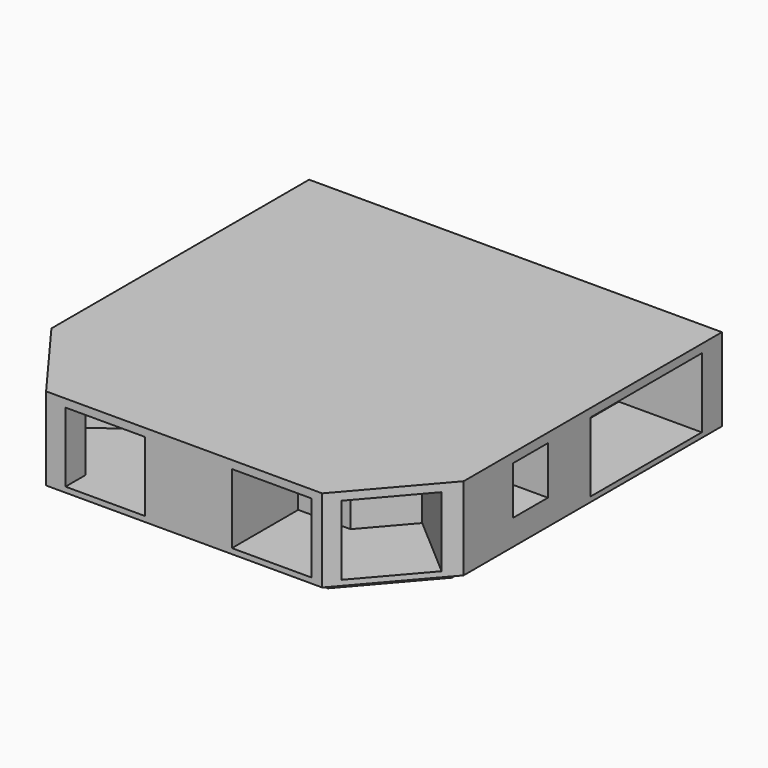
from build123d import *

# Parameters (mm, degrees)
F1_DEPTH  = 3
F3_DEPTH  = 25
F4_W      = 13.2
F4_H      = 14.5
F4_W_2    = 42
F4_H_2    = 21
F5_DEPTH  = 25
F6_W      = 24
F6_H      = 21
F7_DEPTH  = 25
F8_W      = 24
F8_H      = 21
F9_DEPTH  = 25
F10_W     = 24
F10_H     = 21
F11_DEPTH = 25
F12_W     = 9
F12_H     = 21
F12_W_2   = 13.2
F12_H_2   = 13.2
F13_DEPTH = 25


with BuildPart() as f1:
    # F0 (on Top) → F1 (new body)
    with BuildSketch(Plane.XY):
        Polygon((52.4343535528, 49.4626009114), (-62.0656464472, 49.4626009114), (-62.0656464472, -41.0373990886), (-45.4653799534, -63.5373990886), (33.0013521016, -63.5373990886), (52.4343535528, -41.0373990886), align=None)
    extrude(amount=-F1_DEPTH)

    # F2 (on face) → F3 (join)
    with BuildSketch(Plane.XY):
        Polygon((52.4343535528, 54.4626009114), (-62.0656464472, 54.4626009114), (-67.0656464472, 54.4626009114), (-67.0656464472, -42.682259346), (-47.9899926711, -68.5373990886), (35.2896436851, -68.5373990886), (57.4343535528, -42.8977173713), (57.4343535528, 54.4626009114), align=None)
    extrude(amount=F3_DEPTH)

    # F4 (on face) → F5 (cut)
    with BuildSketch(Plane.YZ.offset(57.4343535528)):
        with Locations((-17.7373990886, 14.955594413)):
            Rectangle(F4_W, F4_H)
        with Locations((25.8626009114, 11.9932589587)):
            Rectangle(F4_W_2, F4_H_2)
    extrude(amount=-F5_DEPTH, mode=Mode.SUBTRACT)

    # F6 (on face) → F7 (cut)
    with BuildSketch(Plane(origin=(54.1161959556, -46.7395606462, 0), x_dir=(0.6536426668, 0.7568033193, 0), z_dir=(0.7568033193, -0.6536426668, 0))):
        with Locations((-12.2025143201, 12.1)):
            Rectangle(F6_W, F6_H)
    extrude(amount=-F7_DEPTH, mode=Mode.SUBTRACT)

    # F8 (on face) → F9 (cut)
    with BuildSketch(Plane.XZ.offset(68.5373990886)):
        with Locations((-30.1374887228, 12.1)):
            Rectangle(F8_W, F8_H)
        with Locations((20.0539599173, 12.1)):
            Rectangle(F8_W, F8_H)
    extrude(amount=-F9_DEPTH, mode=Mode.SUBTRACT)

    # F10 (on face) → F11 (cut)
    with BuildSketch(Plane(origin=(-63.8179335995, -47.0842091039, 0), x_dir=(0.5936930871, -0.8046915672, 0), z_dir=(-0.8046915672, -0.5936930871, 0))):
        with Locations((12, 12.1)):
            Rectangle(F10_W, F10_H)
    extrude(amount=-F11_DEPTH, mode=Mode.SUBTRACT)

    # F12 (on face) → F13 (cut)
    with BuildSketch(Plane(origin=(-67.0656464472, 0, 0), x_dir=(0, -1, 0), z_dir=(-1, 0, 0))):
        with Locations((-36.9626009114, 12.1)):
            Rectangle(F12_W, F12_H)
        with Locations((-9.3626009114, 16)):
            Rectangle(F12_W_2, F12_H_2)
        with Locations((17.1373990886, 12.1)):
            Rectangle(F12_W_2, F12_H)
        with Locations((33.082259346, 16)):
            Rectangle(F12_W_2, F12_H_2)
    extrude(amount=-F13_DEPTH, mode=Mode.SUBTRACT)


solid = f1.part
